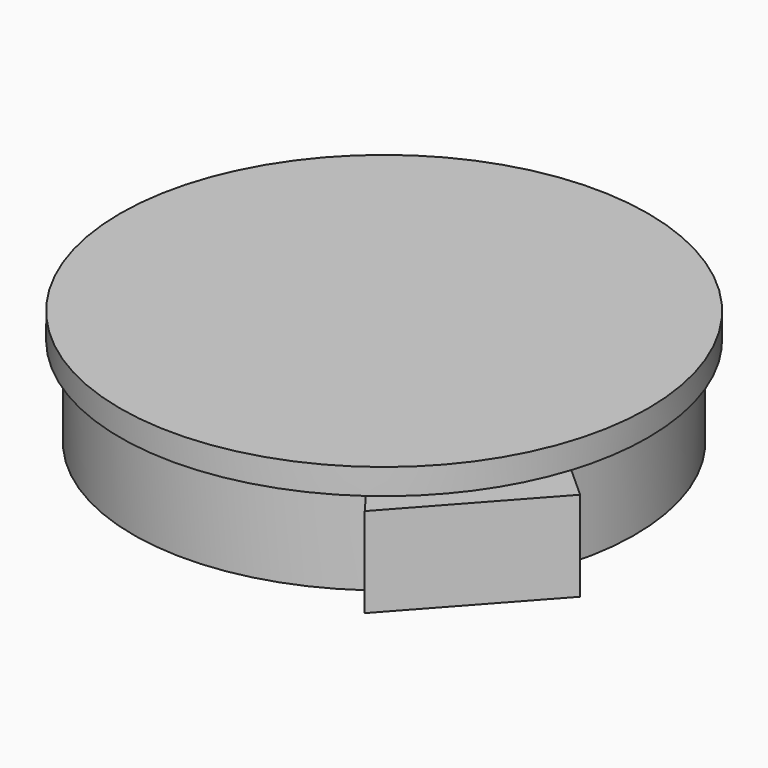
from build123d import *

# Parameters (mm, degrees)
F0_R     = 49.650765
F1_DEPTH = 17.78
F2_R     = 52.245566
F3_DEPTH = 5.08
F5_DEPTH = 17.78


with BuildPart() as f1:
    # F0 (on Top) → F1 (new body)
    with BuildSketch(Plane.XY):
        Circle(F0_R)
    extrude(amount=F1_DEPTH)

    # F2 (on face) → F3 (join)
    with BuildSketch(Plane.XY.offset(17.78)):
        Circle(F2_R)
    extrude(amount=F3_DEPTH)

    # F4 (on Top) → F5 (join)
    with BuildSketch(Plane.XY):
        Polygon((46.185026, -12.667159), (24.616234, -34.781907), (33.415832, -46.560664), (55.981882, -21.482732), align=None)
    extrude(amount=F5_DEPTH)


solid = f1.part
